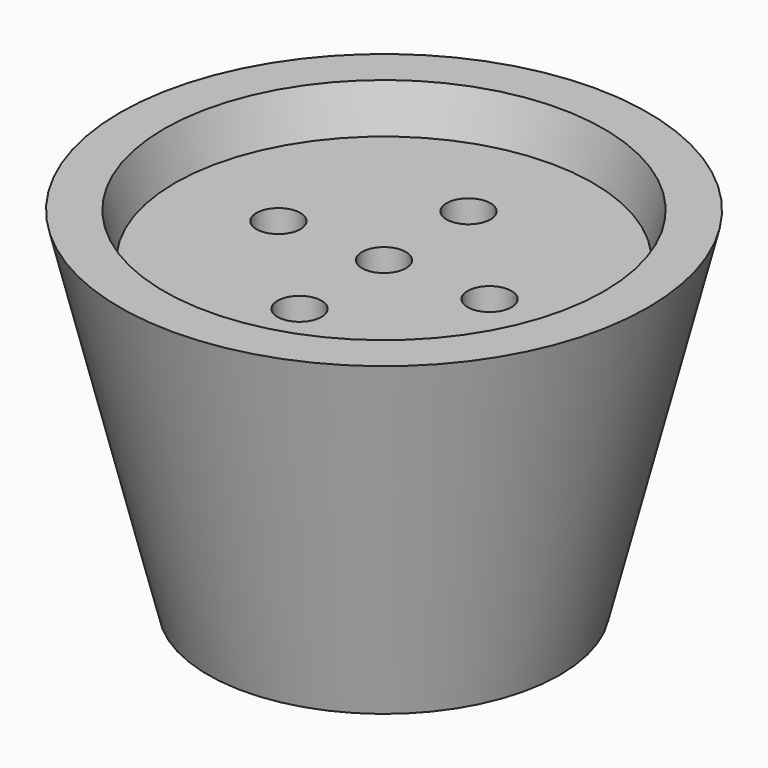
from build123d import *

# Parameters (mm, degrees)
F2_R     = 2.5
F3_DEPTH = 20


with BuildPart() as f1:
    # F0 (on Front) → F1 (revolve)
    with BuildSketch(Plane.XZ):
        Polygon((0, 0), (20, 0), (30, 40), (25, 40), (23.75, 35), (0, 35), align=None)
    revolve(axis=Axis((0, 0, 17.5), (0, 0, -1)))

    # F2 (on face) → F3 (cut)
    with BuildSketch(Plane.XY.offset(35)):
        with Locations((12, 0)):
            Circle(F2_R)
        with Locations((0, -12)):
            Circle(F2_R)
        Circle(F2_R)
        with Locations((-12, 0)):
            Circle(F2_R)
        with Locations((0, 12)):
            Circle(F2_R)
    extrude(amount=-F3_DEPTH, mode=Mode.SUBTRACT)


solid = f1.part
